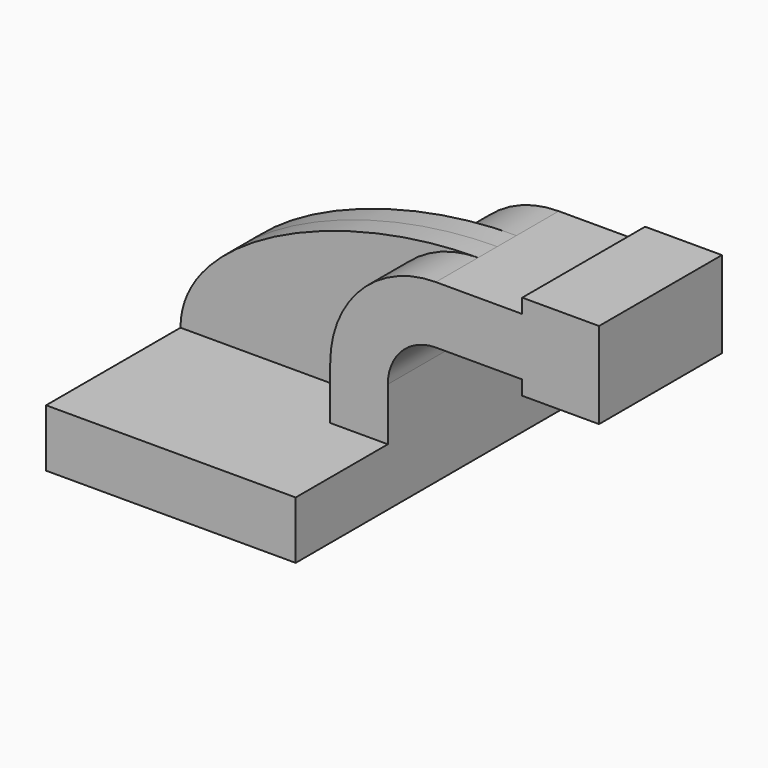
from build123d import *

# Parameters (mm, degrees)
F1_DEPTH = 63.5
F0_W     = 25.4
F0_H     = 19.05
F2_DEPTH = 25.4
F3_DEPTH = 7.9375


with BuildPart() as f1:
    # F0 (on Front) → F1 (new body, symmetric)
    with BuildSketch(Plane.XZ):
        Polygon((-41.275, -9.525), (41.275, -9.525), (41.275, 9.525), (22.225, 9.525), (-41.275, 9.525), align=None)
    extrude(amount=F1_DEPTH, both=True)

    # F0 (on Front) → F2 (join, symmetric)
    with BuildSketch(Plane.XZ):
        with BuildLine():
            Line((22.225, 9.525), (41.275, 9.525))
            Line((41.275, 9.525), (41.275, 26.9875))
            ThreePointArc((41.275, 26.9875), (45.9246798487, 38.2128201513), (57.15, 42.8625))
            Line((57.15, 42.8625), (60.325, 42.8625))
            Line((60.325, 42.8625), (60.325, 61.9125))
            Line((60.325, 61.9125), (57.15, 61.9125))
            ThreePointArc((57.15, 61.9125), (32.4542956671, 51.6832043329), (22.225, 26.9875))
            Line((22.225, 26.9875), (22.225, 9.525))
        make_face()
        with Locations((73.025, 52.3875)):
            Rectangle(F0_W, F0_H)
        Polygon((85.725, 66.675), (85.725, 61.9125), (85.725, 42.8625), (85.725, 38.1), (111.125, 38.1), (111.125, 66.675), align=None)
    extrude(amount=F2_DEPTH, both=True)

    # F0 (on Front) → F3 (join, symmetric)
    with BuildSketch(Plane.XZ):
        with BuildLine():
            add(Edge.make_bspline(
                [(-41.275, 9.525), (-41.275, 38.2137889473), (10.6306826578, 61.9125), (57.15, 61.9125)],
                knots=[0, 0, 0, 0, 111.4985685166, 111.4985685166, 111.4985685166, 111.4985685166], degree=3))
            Line((-41.275, 9.525), (22.225, 9.525))
            Line((22.225, 9.525), (22.225, 26.9875))
            ThreePointArc((22.225, 26.9875), (32.4542956671, 51.6832043329), (57.15, 61.9125))
        make_face()
    extrude(amount=F3_DEPTH, both=True)


solid = f1.part
